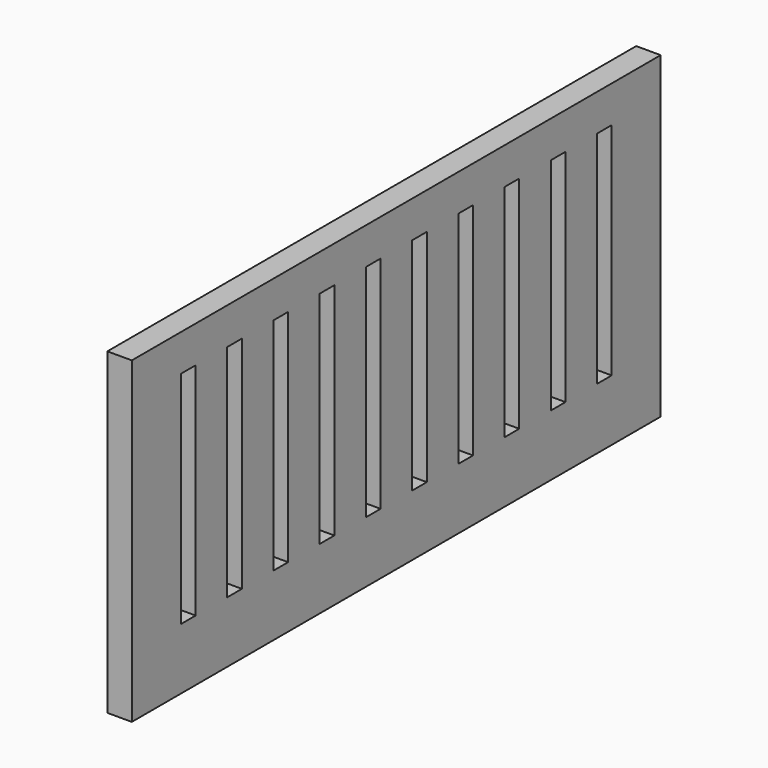
from build123d import *

# Parameters (mm, degrees)
F0_W     = 54
F0_H     = 26
F0_W_2   = 1.5
F0_H_2   = 18
F1_DEPTH = 2


with BuildPart() as f1:
    # F0 (on Right) → F1 (new body)
    with BuildSketch(Plane.YZ):
        with Locations((27, -13)):
            Rectangle(F0_W, F0_H)
        with Locations((5.77, -12)):
            Rectangle(F0_W_2, F0_H_2, mode=Mode.SUBTRACT)
        with Locations((10.49, -12)):
            Rectangle(F0_W_2, F0_H_2, mode=Mode.SUBTRACT)
        with Locations((15.21, -12)):
            Rectangle(F0_W_2, F0_H_2, mode=Mode.SUBTRACT)
        with Locations((19.93, -12)):
            Rectangle(F0_W_2, F0_H_2, mode=Mode.SUBTRACT)
        with Locations((24.65, -12)):
            Rectangle(F0_W_2, F0_H_2, mode=Mode.SUBTRACT)
        with Locations((29.37, -12)):
            Rectangle(F0_W_2, F0_H_2, mode=Mode.SUBTRACT)
        with Locations((34.09, -12)):
            Rectangle(F0_W_2, F0_H_2, mode=Mode.SUBTRACT)
        with Locations((38.81, -12)):
            Rectangle(F0_W_2, F0_H_2, mode=Mode.SUBTRACT)
        with Locations((43.53, -12)):
            Rectangle(F0_W_2, F0_H_2, mode=Mode.SUBTRACT)
        with Locations((48.25, -12)):
            Rectangle(F0_W_2, F0_H_2, mode=Mode.SUBTRACT)
    extrude(amount=F1_DEPTH)


solid = f1.part
